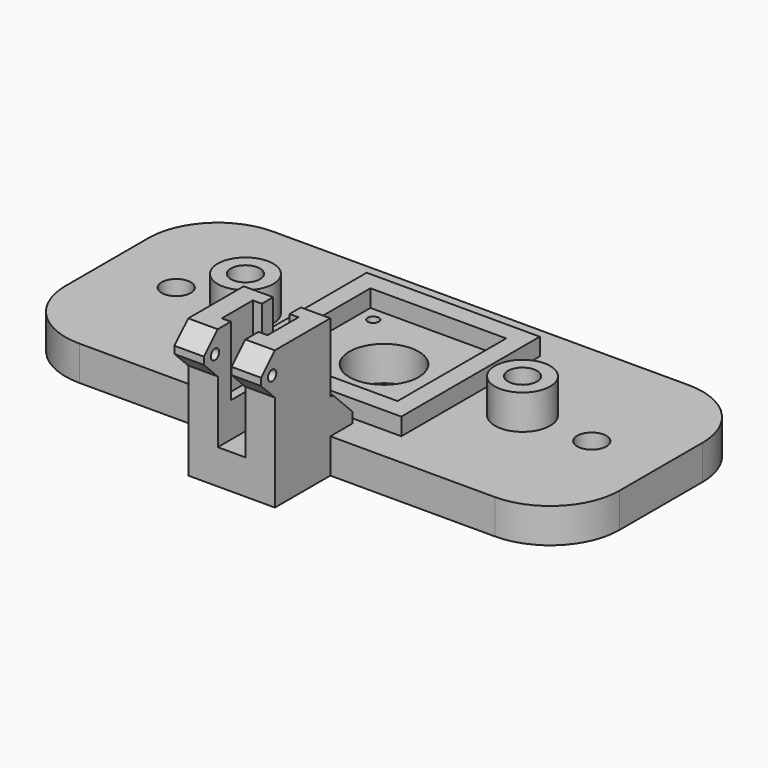
from build123d import *

# Parameters (mm, degrees)
SKETCH_W        = 160
SKETCH_H        = 70
PAD_DEPTH       = 10
SKETCH001_R     = 10
POCKET_DEPTH    = 10
SKETCH002_R     = 8
PAD001_DEPTH    = 10
SKETCH003_R     = 4.2
POCKET001_DEPTH = 20
SKETCH004_W     = 50
SKETCH004_H     = 50
SKETCH004_W_2   = 39.2
SKETCH004_H_2   = 39.2
PAD002_DEPTH    = 5
SKETCH005_R     = 1.6
POCKET002_DEPTH = 10
SKETCH006_R     = 4.2
POCKET003_DEPTH = 10
SKETCH007_W     = 25
SKETCH007_H     = 20
PAD003_DEPTH    = 40
SKETCH008_W     = 8
SKETCH008_H     = 20
POCKET004_DEPTH = 30
SKETCH009_W     = 13.2
SKETCH009_H     = 11.2
POCKET005_DEPTH = 20
SKETCH010_W     = 8.5
SKETCH010_H     = 12
PAD004_DEPTH    = 5
SKETCH011_R     = 1.5
POCKET006_DEPTH = 25
CHAMFER_SIZE    = 4.95
CHAMFER001_SIZE = 4.95
CHAMFER002_SIZE = 4.95
CHAMFER003_SIZE = 4.95
FILLET_R        = 20
FILLET001_R     = 20
FILLET002_R     = 20
FILLET003_R     = 20
SKETCH012_W     = 8
SKETCH012_H     = 10
PAD005_DEPTH    = 8.5
SKETCH013_W     = 8
SKETCH013_H     = 10
PAD006_DEPTH    = 8.5
CHAMFER004_SIZE = 7
CHAMFER005_SIZE = 7


with BuildPart() as part:
    # Sketch → Pad (new body)
    with BuildSketch(Plane.XY):
        Rectangle(SKETCH_W, SKETCH_H)
    extrude(amount=PAD_DEPTH)

    # Sketch001 (on Face6 of Pad) → Pocket (cut)
    with BuildSketch(Plane.XY.offset(10)):
        Circle(SKETCH001_R)
    extrude(amount=-POCKET_DEPTH, mode=Mode.SUBTRACT)

    # Sketch002 (on Face5 of Pocket) → Pad001 (join)
    with BuildSketch(Plane.XY.offset(10)):
        with Locations((-40, 0)):
            Circle(SKETCH002_R)
        with Locations((40, 0)):
            Circle(SKETCH002_R)
    extrude(amount=PAD001_DEPTH)

    # Sketch003 (on Face10 of Pad001) → Pocket001 (cut)
    with BuildSketch(Plane.XY.offset(20)):
        with Locations((-40, 0)):
            Circle(SKETCH003_R)
        with Locations((40, 0)):
            Circle(SKETCH003_R)
    extrude(amount=-POCKET001_DEPTH, mode=Mode.SUBTRACT)

    # Sketch004 (on Face5 of Pocket001) → Pad002 (join)
    with BuildSketch(Plane.XY.offset(10)):
        Rectangle(SKETCH004_W, SKETCH004_H)
        Rectangle(SKETCH004_W_2, SKETCH004_H_2, mode=Mode.SUBTRACT)
    extrude(amount=PAD002_DEPTH)

    # Sketch005 (on Face17 of Pad002) → Pocket002 (cut)
    with BuildSketch(Plane.XY.offset(10)):
        with Locations((-15.5, 15.5)):
            Circle(SKETCH005_R)
        with Locations((15.5, 15.5)):
            Circle(SKETCH005_R)
        with Locations((-15.5, -15.5)):
            Circle(SKETCH005_R)
        with Locations((15.5, -15.5)):
            Circle(SKETCH005_R)
    extrude(amount=-POCKET002_DEPTH, mode=Mode.SUBTRACT)

    # Sketch006 (on Face5 of Pocket002) → Pocket003 (cut)
    with BuildSketch(Plane.XY.offset(10)):
        with Locations((-60, 0)):
            Circle(SKETCH006_R)
        with Locations((60, 0)):
            Circle(SKETCH006_R)
    extrude(amount=-POCKET003_DEPTH, mode=Mode.SUBTRACT)

    # Sketch007 (on Face4 of Pocket003) → Pad003 (join)
    with BuildSketch(Plane(origin=(0, 0, 0), x_dir=(1, 0, 0), z_dir=(0, 0, -1))):
        with Locations((0, 45)):
            Rectangle(SKETCH007_W, SKETCH007_H)
    extrude(amount=-PAD003_DEPTH)

    # Sketch008 (on Face31 of Pad003) → Pocket004 (cut)
    with BuildSketch(Plane.XY.offset(40)):
        with Locations((0, -45)):
            Rectangle(SKETCH008_W, SKETCH008_H)
    extrude(amount=-POCKET004_DEPTH, mode=Mode.SUBTRACT)

    # Sketch009 (on Face33 of Pocket004) → Pocket005 (cut)
    with BuildSketch(Plane.XY.offset(40)):
        with Locations((0, -44.7)):
            Rectangle(SKETCH009_W, SKETCH009_H)
    extrude(amount=-POCKET005_DEPTH, mode=Mode.SUBTRACT)

    # Sketch010 (on Face29 of Pocket005) → Pad004 (join)
    with BuildSketch(Plane.XZ.offset(55)):
        with Locations((-8.25, 34)):
            Rectangle(SKETCH010_W, SKETCH010_H)
        with Locations((8.25, 34)):
            Rectangle(SKETCH010_W, SKETCH010_H)
    extrude(amount=PAD004_DEPTH)

    # Sketch011 (on Face28 of Pad004) → Pocket006 (cut)
    with BuildSketch(Plane.YZ.offset(12.5)):
        with Locations((-56, 34)):
            Circle(SKETCH011_R)
    extrude(amount=-POCKET006_DEPTH, mode=Mode.SUBTRACT)

    # Chamfer
    chamfer_edges = [part.edges().sort_by_distance(p)[0] for p in [
        (8.25, -60, 28),
    ]]
    chamfer(chamfer_edges, length=CHAMFER_SIZE)

    # Chamfer001
    chamfer001_edges = [part.edges().sort_by_distance(p)[0] for p in [
        (-8.25, -60, 28),
    ]]
    chamfer(chamfer001_edges, length=CHAMFER001_SIZE)

    # Chamfer002
    chamfer002_edges = [part.edges().sort_by_distance(p)[0] for p in [
        (8.25, -60, 40),
    ]]
    chamfer(chamfer002_edges, length=CHAMFER002_SIZE)

    # Chamfer003
    chamfer003_edges = [part.edges().sort_by_distance(p)[0] for p in [
        (-8.25, -60, 40),
    ]]
    chamfer(chamfer003_edges, length=CHAMFER003_SIZE)

    # Fillet
    fillet_edges = [part.edges().sort_by_distance(p)[0] for p in [
        (-80, -35, 5),
    ]]
    fillet(fillet_edges, radius=FILLET_R)

    # Fillet001
    fillet001_edges = [part.edges().sort_by_distance(p)[0] for p in [
        (-80, 35, 5),
    ]]
    fillet(fillet001_edges, radius=FILLET001_R)

    # Fillet002
    fillet002_edges = [part.edges().sort_by_distance(p)[0] for p in [
        (80, -35, 5),
    ]]
    fillet(fillet002_edges, radius=FILLET002_R)

    # Fillet003
    fillet003_edges = [part.edges().sort_by_distance(p)[0] for p in [
        (80, 35, 5),
    ]]
    fillet(fillet003_edges, radius=FILLET003_R)

    # Sketch012 (on Face22 of Fillet003) → Pad005 (join)
    with BuildSketch(Plane.YZ.offset(12.5)):
        with Locations((-31, 15)):
            Rectangle(SKETCH012_W, SKETCH012_H)
    extrude(amount=-PAD005_DEPTH)

    # Sketch013 (on Face24 of Pad005) → Pad006 (join)
    with BuildSketch(Plane(origin=(-12.5, 0, 0), x_dir=(0, -1, 0), z_dir=(-1, 0, 0))):
        with Locations((31, 15)):
            Rectangle(SKETCH013_W, SKETCH013_H)
    extrude(amount=-PAD006_DEPTH)

    # Chamfer004
    chamfer004_edges = [part.edges().sort_by_distance(p)[0] for p in [
        (8.25, -27, 20),
    ]]
    chamfer(chamfer004_edges, length=CHAMFER004_SIZE)

    # Chamfer005
    chamfer005_edges = [part.edges().sort_by_distance(p)[0] for p in [
        (-8.25, -27, 20),
    ]]
    chamfer(chamfer005_edges, length=CHAMFER005_SIZE)


solid = part.part
